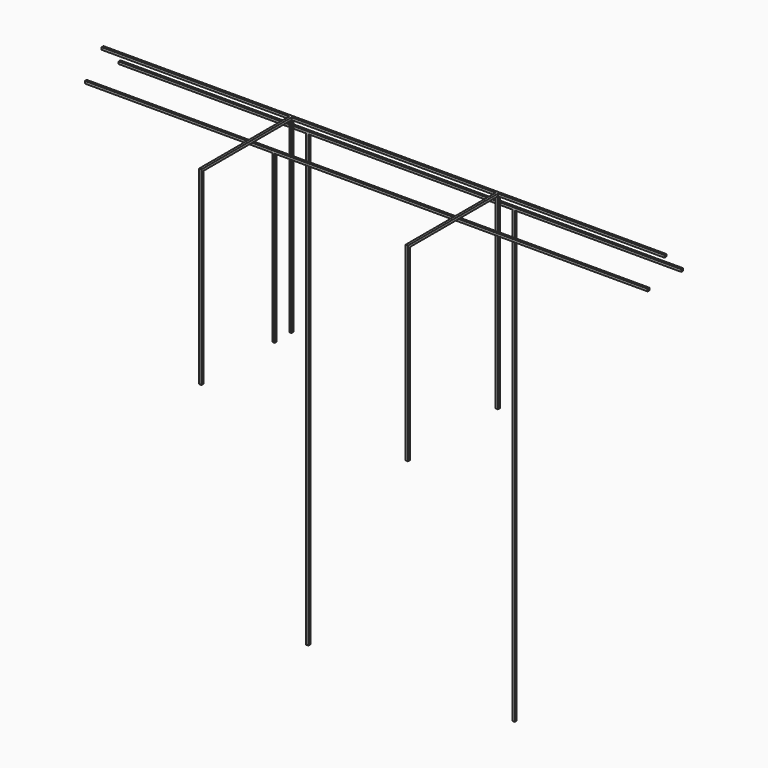
from build123d import *

# Parameters (mm, degrees)
F0_W      = 6.35
F0_H      = 6.35
F1_DEPTH  = 1524
F2_W      = 6.35
F2_H      = 6.35
F3_DEPTH  = 508
F4_W      = 6.35
F4_H      = 6.35
F5_DEPTH  = 304.8
F6_W      = 6.35
F6_H      = 6.35
F7_DEPTH  = 508
F8_W      = 6.35
F8_H      = 6.35
F9_DEPTH  = 1524
F10_W     = 6.35
F10_H     = 6.35
F11_DEPTH = 450.85
F12_W     = 6.35
F12_H     = 6.35
F13_DEPTH = 1524
F14_W     = 6.35
F14_H     = 6.35
F15_DEPTH = 1219.2


with BuildPart() as f1:
    # F0 (on Right) → F1 (new body)
    with BuildSketch(Plane.YZ):
        with Locations((-3.175, -3.175)):
            Rectangle(F0_W, F0_H)
    extrude(amount=F1_DEPTH)

    # F2 (on face) → F3 (join)
    with BuildSketch(Plane(origin=(0, 0, -6.35), x_dir=(1, 0, 0), z_dir=(0, 0, -1))):
        with Locations((511.175, 3.175)):
            Rectangle(F2_W, F2_H)
        with Locations((1069.975, 3.175)):
            Rectangle(F2_W, F2_H)
    extrude(amount=F3_DEPTH)

    # F4 (on face) → F5 (join)
    with BuildSketch(Plane.XZ.offset(6.35)):
        with Locations((511.175, -3.175)):
            Rectangle(F4_W, F4_H)
        with Locations((1069.975, -3.175)):
            Rectangle(F4_W, F4_H)
    extrude(amount=F5_DEPTH)

    # F6 (on face) → F7 (join, through all)
    with BuildSketch(Plane(origin=(0, 0, -6.35), x_dir=(1, 0, 0), z_dir=(0, 0, -1))):
        with Locations((511.175, 307.975)):
            Rectangle(F6_W, F6_H)
        with Locations((1069.975, 307.975)):
            Rectangle(F6_W, F6_H)
    extrude(amount=F7_DEPTH)


with BuildPart() as f9:
    # F8 (on Right) → F9 (new body, through all)
    with BuildSketch(Plane.YZ):
        with Locations((-60.325, -60.325)):
            Rectangle(F8_W, F8_H)
    extrude(amount=F9_DEPTH)

    # F10 (on face) → F11 (join, through all)
    with BuildSketch(Plane(origin=(0, 0, -63.5), x_dir=(1, 0, 0), z_dir=(0, 0, -1))):
        with Locations((511.175, 60.325)):
            Rectangle(F10_W, F10_H)
    extrude(amount=F11_DEPTH)


with BuildPart() as f13:
    # F12 (on Right) → F13 (new body, through all)
    with BuildSketch(Plane.YZ):
        with Locations((53.975, -60.325)):
            Rectangle(F12_W, F12_H)
    extrude(amount=F13_DEPTH)

    # F14 (on face) → F15 (join)
    with BuildSketch(Plane(origin=(0, 0, -63.5), x_dir=(1, 0, 0), z_dir=(0, 0, -1))):
        with Locations((511.175, -53.975)):
            Rectangle(F14_W, F14_H)
        with Locations((1069.975, -53.975)):
            Rectangle(F14_W, F14_H)
    extrude(amount=F15_DEPTH)


solid = Compound([f1.part, f9.part, f13.part])
